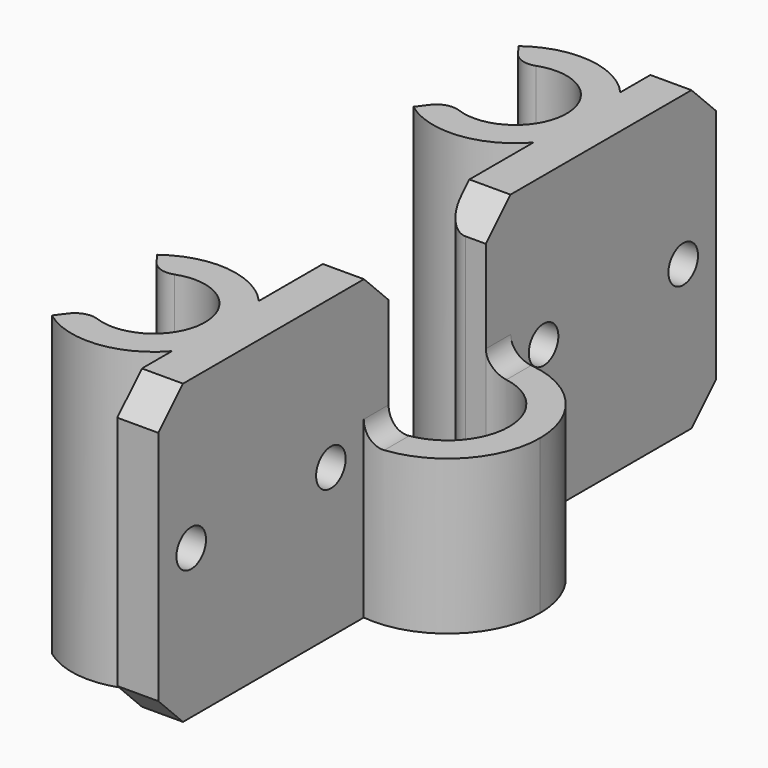
from build123d import *

# Parameters (mm, degrees)
F1_DEPTH = 14.5
F2_DEPTH = 14.5
F4_DEPTH = 7
F5_R     = 0.9
F6_DEPTH = 2
F7_SIZE  = 1.5
F8_R     = 1


with BuildPart() as f1:
    # F0 (on Top) → F1 (new body)
    with BuildSketch(Plane.XY):
        with BuildLine():
            Line((5, 4.472136), (5, 15))
            Line((5, 15), (5, 16.972136))
            Line((5, 16.972136), (3, 16.972136))
            Line((3, 16.972136), (3, 15))
            Line((3, 15), (3, 13.645751))
            ThreePointArc((3, 13.645751), (4, 11), (3, 8.354249))
            Line((3, 8.354249), (3, 2.95804))
            Line((3, 2.95804), (5, 2.95804))
            ThreePointArc((5, 2.95804), (7.436492, 2.291288), (8.5, 0))
            ThreePointArc((8.5, 0), (7.436492, -2.291288), (5, -2.95804))
            Line((5, -2.95804), (3, -2.95804))
            Line((3, -2.95804), (3, -8.354249))
            ThreePointArc((3, -8.354249), (4, -11), (3, -13.645751))
            Line((3, -13.645751), (3, -15))
            Line((3, -15), (3, -16.972136))
            Line((3, -16.972136), (5, -16.972136))
            Line((5, -16.972136), (5, -15))
            Line((5, -15), (5, -4.472136))
            ThreePointArc((5, -4.472136), (8.5, -3.354102), (10, 0))
            ThreePointArc((10, 0), (8.5, 3.354102), (5, 4.472136))
        make_face()
    extrude(amount=F1_DEPTH)

    # F0 (on Top) → F2 (join)
    with BuildSketch(Plane.XY):
        with BuildLine():
            ThreePointArc((3, 8.354249), (4, 11), (3, 13.645751))
            ThreePointArc((3, 13.645751), (0.408409, 14.979096), (-2.4, 14.2))
            Line((-2.4, 14.2), (-1.5, 13))
            ThreePointArc((-1.5, 13), (2.5, 11), (-1.5, 9))
            Line((-1.5, 9), (-2.4, 7.8))
            ThreePointArc((-2.4, 7.8), (0.408409, 7.020904), (3, 8.354249))
        make_face()
        with BuildLine():
            ThreePointArc((-2.4, -14.2), (0.408409, -14.979096), (3, -13.645751))
            ThreePointArc((3, -13.645751), (4, -11), (3, -8.354249))
            ThreePointArc((3, -8.354249), (0.408409, -7.020904), (-2.4, -7.8))
            Line((-2.4, -7.8), (-1.5, -9))
            ThreePointArc((-1.5, -9), (2.5, -11), (-1.5, -13))
            Line((-1.5, -13), (-2.4, -14.2))
        make_face()
    extrude(amount=F2_DEPTH)

    # F3 (on face) → F4 (cut)
    with BuildSketch(Plane.XY.offset(14.5)):
        with BuildLine():
            Line((5, -2.95804), (5, -4.472136))
            ThreePointArc((5, -4.472136), (10, 0), (5, 4.472136))
            Line((5, 4.472136), (5, 2.95804))
            ThreePointArc((5, 2.95804), (8.5, 0), (5, -2.95804))
        make_face()
    extrude(amount=-F4_DEPTH, mode=Mode.SUBTRACT)

    # F5 (on face) → F6 (cut)
    with BuildSketch(Plane.YZ.offset(5)):
        with Locations((-14.972136, 7.25)):
            Circle(F5_R)
        with Locations((-6.472136, 7.25)):
            Circle(F5_R)
        with Locations((6.472136, 7.25)):
            Circle(F5_R)
        with Locations((14.972136, 7.25)):
            Circle(F5_R)
    extrude(amount=-F6_DEPTH, mode=Mode.SUBTRACT)

    # F7
    f7_edges = [f1.edges().sort_by_distance(p)[0] for p in [
        (4, -16.972136, 14.5),
        (4, -16.972136, 0),
        (4, 16.972136, 0),
        (4, 16.972136, 14.5),
        (4, 2.95804, 14.5),
        (4, -2.95804, 14.5),
    ]]
    chamfer(f7_edges, length=F7_SIZE)

    # F8
    f8_edges = [f1.edges().sort_by_distance(p)[0] for p in [
        (-1.5, -9, 7.25),
        (-1.5, 13, 7.25),
        (-1.5, -13, 7.25),
        (-1.5, 9, 7.25),
        (5, -3.715088, 7.5),
        (5, 3.715088, 7.5),
        (3, 2.95804, 6.5),
        (3, -2.95804, 6.5),
    ]]
    fillet(f8_edges, radius=F8_R)


solid = f1.part
